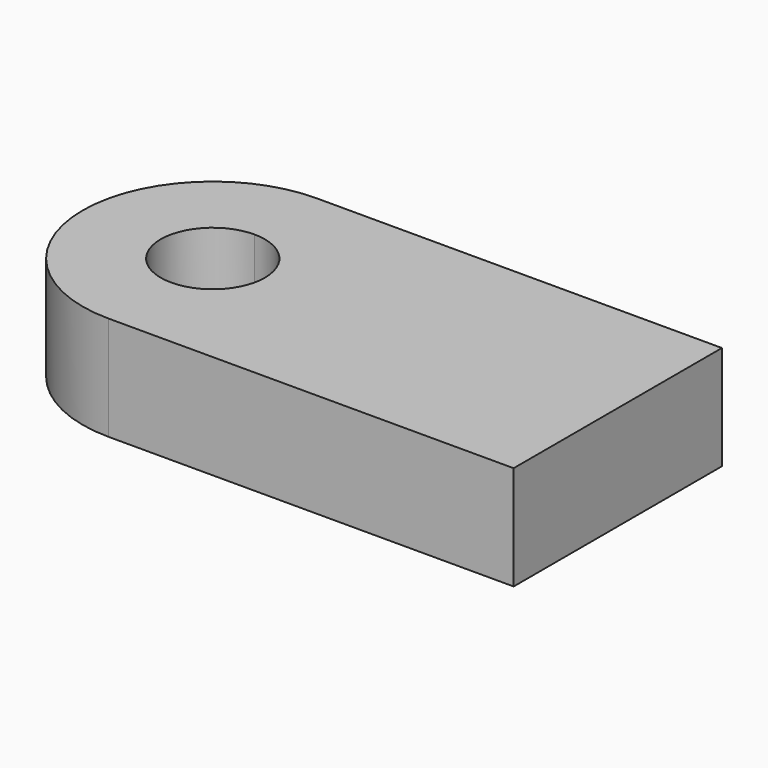
from build123d import *

# Parameters (mm, degrees)
F1_DEPTH = 25.4


with BuildPart() as f1:
    # F0 (on Top) → F1 (new body)
    with BuildSketch(Plane.XY):
        with BuildLine():
            ThreePointArc((-16.6309525629, 0), (-25.9303122603, 22.4506403027), (-48.3809525629, 31.75))
            Line((-48.3809525629, 31.75), (-48.3809525629, 12.7))
            ThreePointArc((-48.3809525629, 12.7), (-39.4006964419, 8.9802561211), (-35.6809525629, 0))
            ThreePointArc((-35.6809525629, 0), (-39.4006964419, -8.9802561211), (-48.3809525629, -12.7))
            Line((-48.3809525629, -12.7), (-48.3809525629, -31.75))
            ThreePointArc((-48.3809525629, -31.75), (-25.9303122603, -22.4506403027), (-16.6309525629, 0))
        make_face()
        with BuildLine():
            Line((50.3968245514, 31.75), (-48.3809525629, 31.75))
            ThreePointArc((-48.3809525629, 31.75), (-25.9303122603, 22.4506403027), (-16.6309525629, 0))
            ThreePointArc((-16.6309525629, 0), (-25.9303122603, -22.4506403027), (-48.3809525629, -31.75))
            Line((-48.3809525629, -31.75), (50.3968245514, -31.75))
            Line((50.3968245514, -31.75), (50.3968245514, 31.75))
        make_face()
        with BuildLine():
            Line((-48.3809525629, 12.7), (-48.3809525629, 31.75))
            ThreePointArc((-48.3809525629, 31.75), (-80.1309525629, 0), (-48.3809525629, -31.75))
            Line((-48.3809525629, -31.75), (-48.3809525629, -12.7))
            ThreePointArc((-48.3809525629, -12.7), (-61.0809525629, 0), (-48.3809525629, 12.7))
        make_face()
    extrude(amount=F1_DEPTH)


solid = f1.part
